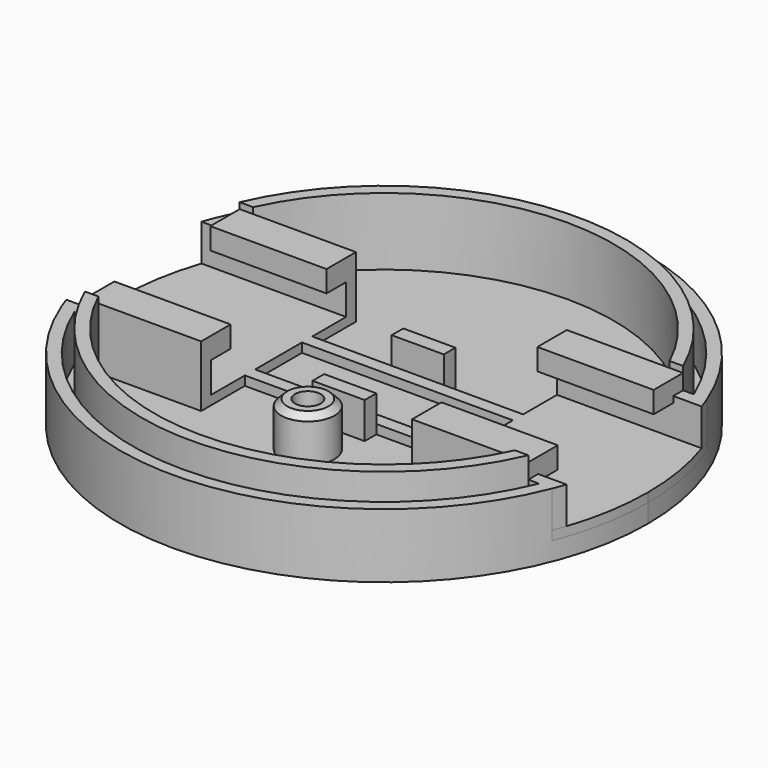
from build123d import *

# Parameters (mm, degrees)
F1_ANGLE  = 90
F3_DEPTH  = 25.4
F4_DEPTH  = 0.762
F6_DEPTH  = 3.048
F7_W      = 9.631022
F7_H      = 1.778
F8_DEPTH  = 3.048
F9_W      = 2.159
F9_H      = 1.2065
F10_DEPTH = 2.9972
F13_R     = 2.2098
F13_R_2   = 1.0668
F14_DEPTH = 3.683
F15_SIZE  = 0.508


with BuildPart() as f1:
    # F0 (on Front) → F1 (revolve)
    with BuildSketch(Plane.XZ):
        Polygon((-17.907, 0), (0, 0), (0, 1.524), (-19.0246, 1.524), (-19.0246, 7.112), (-20.0406, 7.112), (-20.0406, 1.524), (-20.8534, 1.524), (-20.8534, 5.334), (-21.8694, 5.334), (-21.8694, 0), (-19.8628, 0), (-19.8628, 0.508), (-17.907, 0.508), align=None)
    revolve(axis=Axis((0, 0, 5.251978), (0, 0, 1)), revolution_arc=F1_ANGLE)

    # F2 (on face) → F3 (cut)
    with BuildSketch(Plane.XY.offset(1.524)):
        with BuildLine():
            Line((0, -3.4925), (0, -2.4257))
            Line((0, -2.4257), (-8.7376, -2.4257))
            Line((-8.7376, -2.4257), (-8.7376, 0))
            Line((-8.7376, 0), (-21.8694, 0))
            ThreePointArc((-21.8694, 0), (-21.485747, -4.078397), (-20.34825, -8.0137))
            Line((-20.34825, -8.0137), (-8.7376, -8.0137))
            Line((-8.7376, -8.0137), (-8.7376, -3.4925))
            Line((-8.7376, -3.4925), (0, -3.4925))
        make_face()
    extrude(amount=F3_DEPTH, mode=Mode.SUBTRACT)

    # F2 (on face) → F4 (join)
    with BuildSketch(Plane.XY.offset(1.524)):
        with BuildLine():
            Line((0, -3.4925), (0, -2.4257))
            Line((0, -2.4257), (-8.7376, -2.4257))
            Line((-8.7376, -2.4257), (-8.7376, 0))
            Line((-8.7376, 0), (-21.8694, 0))
            ThreePointArc((-21.8694, 0), (-21.485747, -4.078397), (-20.34825, -8.0137))
            Line((-20.34825, -8.0137), (-8.7376, -8.0137))
            Line((-8.7376, -8.0137), (-8.7376, -3.4925))
            Line((-8.7376, -3.4925), (0, -3.4925))
        make_face()
    extrude(amount=F4_DEPTH)

    # F5 (on face) → F6 (join, through all)
    with BuildSketch(Plane.XY.offset(2.286)):
        with BuildLine():
            Line((-20.34825, -8.0137), (-8.7376, -8.0137))
            Line((-8.7376, -8.0137), (-8.7376, -6.9977))
            Line((-8.7376, -6.9977), (-20.719625, -6.9977))
            ThreePointArc((-20.719625, -6.9977), (-20.54022, -7.507997), (-20.34825, -8.0137))
        make_face()
    extrude(amount=F6_DEPTH)

    # F7 (on face) → F8 (join)
    with BuildSketch(Plane.XZ.offset(8.0137)):
        with Locations((-13.553111, 5.715)):
            Rectangle(F7_W, F7_H)
    extrude(amount=-F8_DEPTH)

    # F9 (on face) → F10 (join)
    with BuildSketch(Plane.XY.offset(1.524)):
        with Locations((-1.0795, -4.09575)):
            Rectangle(F9_W, F9_H)
    extrude(amount=F10_DEPTH)

    # F11: F1 across face


with BuildPart() as f1_1:
    add(f1.part)
    add(f1.part.mirror(Plane(origin=(0, -12.015662, 1.628309), x_dir=(0, 1, 0), z_dir=(1, 0, 0))))

    # F12: F1 across face


with BuildPart() as f1_2:
    add(f1_1.part)
    add(f1_1.part.mirror(Plane(origin=(0, 0, 1.044039), x_dir=(-1, 0, 0), z_dir=(0, 1, 0))))

    # F13 (on face) → F14 (join)
    with BuildSketch(Plane.XY.offset(1.524)):
        with Locations((0, -7.8867)):
            Circle(F13_R)
        with Locations((0, -7.8867)):
            Circle(F13_R_2, mode=Mode.SUBTRACT)
    extrude(amount=F14_DEPTH)

    # F15
    f15_edges = [f1_2.edges().sort_by_distance(p)[0] for p in [
        (-2.2098, -7.8867, 5.207),
    ]]
    chamfer(f15_edges, length=F15_SIZE)


solid = f1_2.part
